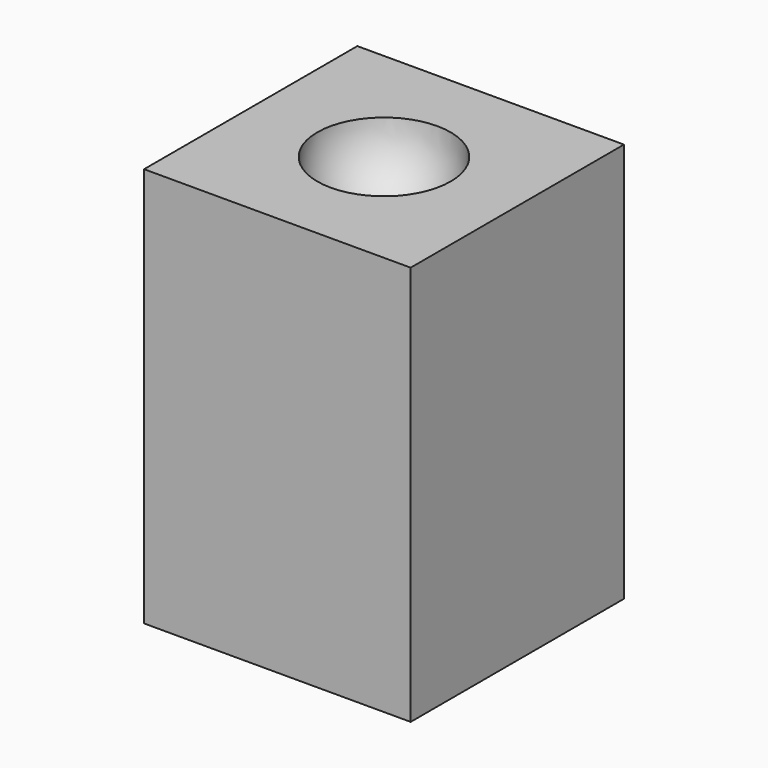
from build123d import *

# Parameters (mm, degrees)
F0_W     = 200
F0_H     = 200
F1_DEPTH = 300


with BuildPart() as f1:
    # F0 (on Top) → F1 (new body)
    with BuildSketch(Plane.XY):
        Rectangle(F0_W, F0_H)
    extrude(amount=F1_DEPTH)

    # F2 (on face) → F3 (revolve, cut)
    with BuildSketch(Plane.XY.offset(300)):
        with BuildLine():
            Line((-50, 0), (50, 0))
            ThreePointArc((50, 0), (0, 50), (-50, 0))
        make_face()
    revolve(axis=Axis((0, 0, 300), (1, 0, 0)), mode=Mode.SUBTRACT)


solid = f1.part
